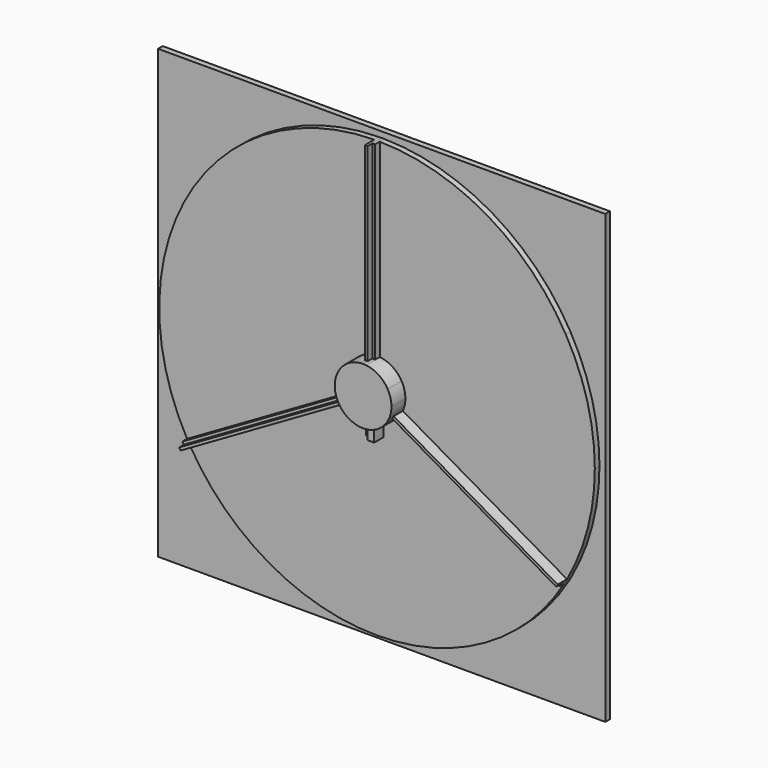
from build123d import *

# Parameters (mm, degrees)
F1_DEPTH = 2.54
F2_DEPTH = 5.08
F3_DEPTH = 2.54
F4_DEPTH = 7.62
F5_DEPTH = 10.16


with BuildPart() as f1:
    # F0 (on Front) → F1 (new body)
    with BuildSketch(Plane.XZ):
        with BuildLine():
            ThreePointArc((82.4889197105, 47.625), (92.004434954, 24.652514046), (95.25, 0))
            ThreePointArc((95.25, 0), (92.156719127, -24.0769935778), (83.0777875119, -46.5901676551))
            ThreePointArc((83.0777875119, -46.5901676551), (82.7849705841, -47.1085039605), (82.4889197105, -47.625))
            ThreePointArc((82.4889197105, -47.625), (82.1896464561, -48.1396355971), (81.8871625119, -48.6523906479))
            ThreePointArc((81.8871625119, -48.6523906479), (47.1085039605, -82.7849705841), (0, -95.25))
            Line((0, -95.25), (0, -97.79))
            Line((0, -97.79), (97.79, -97.79))
            Line((97.79, -97.79), (97.79, 97.79))
            Line((97.79, 97.79), (0, 97.79))
            Line((0, 97.79), (0, 95.25))
            ThreePointArc((0, 95.25), (0.595324128, 95.2481395576), (1.190625, 95.242558303))
            ThreePointArc((1.190625, 95.242558303), (48.1396355971, 82.1896464561), (82.4889197105, 47.625))
        make_face()
        with BuildLine():
            ThreePointArc((-1.190625, 95.242558303), (-0.595324128, 95.2481395576), (0, 95.25))
            Line((0, 95.25), (0, 97.79))
            Line((0, 97.79), (-97.79, 97.79))
            Line((-97.79, 97.79), (-97.79, -97.79))
            Line((-97.79, -97.79), (0, -97.79))
            Line((0, -97.79), (0, -95.25))
            ThreePointArc((0, -95.25), (-47.1085039605, -82.7849705841), (-81.8871625119, -48.6523906479))
            ThreePointArc((-81.8871625119, -48.6523906479), (-82.1896464561, -48.1396355971), (-82.4889197105, -47.625))
            ThreePointArc((-82.4889197105, -47.625), (-82.7849705841, -47.1085039605), (-83.0777875119, -46.5901676551))
            ThreePointArc((-83.0777875119, -46.5901676551), (-95.2481395576, 0.595324128), (-82.4889197105, 47.625))
            ThreePointArc((-82.4889197105, 47.625), (-48.1396355971, 82.1896464561), (-1.190625, 95.242558303))
        make_face()
        with BuildLine():
            Line((-1.190625, 12.3378845492), (-1.190625, 95.242558303))
            ThreePointArc((-1.190625, 95.242558303), (-48.1396355971, 82.1896464561), (-82.4889197105, 47.625))
            Line((-82.4889197105, 47.625), (-10.734558085, 6.1976))
            ThreePointArc((-10.734558085, 6.1976), (-6.7065841894, 10.4241408064), (-1.190625, 12.3378845492))
        make_face()
        with BuildLine():
            Line((0, -12.3952), (0, -1.3748153285))
            Line((0, -1.3748153285), (-2.1717, -2.6286469081))
            Line((-2.1717, -2.6286469081), (-2.1717, -12.2034709059))
            ThreePointArc((-2.1717, -12.2034709059), (-1.0900734993, -12.3471746892), (0, -12.3952))
        make_face()
        with BuildLine():
            ThreePointArc((0, -95.25), (47.1085039605, -82.7849705841), (81.8871625119, -48.6523906479))
            Line((81.8871625119, -48.6523906479), (10.0896089486, -7.200053771))
            ThreePointArc((10.0896089486, -7.200053771), (6.8985820933, -10.2980846832), (2.8194, -12.0702927338))
            Line((2.8194, -12.0702927338), (2.8194, -15.2146))
            Line((2.8194, -15.2146), (2.8194, -18.034))
            Line((2.8194, -18.034), (0, -18.034))
            Line((0, -18.034), (0, -95.25))
        make_face()
        with BuildLine():
            Line((1.190625, 0.6874076643), (10.734558085, 6.1976))
            ThreePointArc((10.734558085, 6.1976), (6.7065841894, 10.4241408064), (1.190625, 12.3378845492))
            Line((1.190625, 12.3378845492), (1.190625, 0.6874076643))
        make_face()
        with BuildLine():
            Line((-1.190625, 0.6874076643), (-1.190625, 12.3378845492))
            ThreePointArc((-1.190625, 12.3378845492), (-6.7065841894, 10.4241408064), (-10.734558085, 6.1976))
            Line((-10.734558085, 6.1976), (-1.190625, 0.6874076643))
        make_face()
        with BuildLine():
            Line((-2.8194, -3.0025966775), (-10.0896089486, -7.200053771))
            ThreePointArc((-10.0896089486, -7.200053771), (-6.8985820933, -10.2980846832), (-2.8194, -12.0702927338))
            Line((-2.8194, -12.0702927338), (-2.8194, -3.0025966775))
        make_face()
        with BuildLine():
            ThreePointArc((2.8194, -12.0702927338), (6.8985820933, -10.2980846832), (10.0896089486, -7.200053771))
            Line((10.0896089486, -7.200053771), (2.8194, -3.0025966775))
            Line((2.8194, -3.0025966775), (2.8194, -12.0702927338))
        make_face()
        with BuildLine():
            ThreePointArc((-81.8871625119, -48.6523906479), (-47.1085039605, -82.7849705841), (0, -95.25))
            Line((0, -95.25), (0, -18.034))
            Line((0, -18.034), (-2.8194, -18.034))
            Line((-2.8194, -18.034), (-2.8194, -15.2146))
            Line((-2.8194, -15.2146), (-2.8194, -12.0702927338))
            ThreePointArc((-2.8194, -12.0702927338), (-6.8985820933, -10.2980846832), (-10.0896089486, -7.200053771))
            Line((-10.0896089486, -7.200053771), (-81.8871625119, -48.6523906479))
        make_face()
        with BuildLine():
            Line((-10.734558085, 6.1976), (-82.4889197105, 47.625))
            ThreePointArc((-82.4889197105, 47.625), (-95.2481395576, 0.595324128), (-83.0777875119, -46.5901676551))
            Line((-83.0777875119, -46.5901676551), (-11.2802339486, -5.1378307782))
            ThreePointArc((-11.2802339486, -5.1378307782), (-12.3808628456, 0.5960018774), (-10.734558085, 6.1976))
        make_face()
        with BuildLine():
            Line((-2.8194, -0.2529660204), (-1.190625, 0.6874076643))
            Line((-1.190625, 0.6874076643), (-10.734558085, 6.1976))
            ThreePointArc((-10.734558085, 6.1976), (-12.3808628456, 0.5960018774), (-11.2802339486, -5.1378307782))
            Line((-11.2802339486, -5.1378307782), (-2.8194, -0.2529660204))
        make_face()
        with BuildLine():
            ThreePointArc((83.0777875119, -46.5901676551), (92.156719127, -24.0769935778), (95.25, 0))
            ThreePointArc((95.25, 0), (92.004434954, 24.652514046), (82.4889197105, 47.625))
            Line((82.4889197105, 47.625), (10.734558085, 6.1976))
            ThreePointArc((10.734558085, 6.1976), (11.972843802, 3.2081138279), (12.3952, 0))
            ThreePointArc((12.3952, 0), (12.1132518111, -2.6287094933), (11.2802339486, -5.1378307782))
            Line((11.2802339486, -5.1378307782), (83.0777875119, -46.5901676551))
        make_face()
        with BuildLine():
            Line((10.734558085, 6.1976), (82.4889197105, 47.625))
            ThreePointArc((82.4889197105, 47.625), (48.1396355971, 82.1896464561), (1.190625, 95.242558303))
            Line((1.190625, 95.242558303), (1.190625, 12.3378845492))
            ThreePointArc((1.190625, 12.3378845492), (6.7065841894, 10.4241408064), (10.734558085, 6.1976))
        make_face()
        with BuildLine():
            ThreePointArc((12.3952, 0), (11.972843802, 3.2081138279), (10.734558085, 6.1976))
            Line((10.734558085, 6.1976), (1.190625, 0.6874076643))
            Line((1.190625, 0.6874076643), (2.8194, -0.2529660204))
            Line((2.8194, -0.2529660204), (11.2802339486, -5.1378307782))
            ThreePointArc((11.2802339486, -5.1378307782), (12.1132518111, -2.6287094933), (12.3952, 0))
        make_face()
        with BuildLine():
            Line((2.1717, -2.6286469081), (0, -1.3748153285))
            Line((0, -1.3748153285), (0, -12.3952))
            ThreePointArc((0, -12.3952), (1.0900734993, -12.3471746892), (2.1717, -12.2034709059))
            Line((2.1717, -12.2034709059), (2.1717, -2.6286469081))
        make_face()
        with BuildLine():
            ThreePointArc((-2.1717, -13.4166190574), (-1.199956018, -12.6633019157), (0, -12.3952))
            ThreePointArc((0, -12.3952), (-1.0900734993, -12.3471746892), (-2.1717, -12.2034709059))
            Line((-2.1717, -12.2034709059), (-2.1717, -13.4166190574))
        make_face()
        with BuildLine():
            ThreePointArc((10.734558085, -6.1976), (11.0201426838, -5.6742786563), (11.2802339486, -5.1378307782))
            Line((11.2802339486, -5.1378307782), (2.8194, -0.2529660204))
            Line((2.8194, -0.2529660204), (2.8194, -1.627781349))
            Line((2.8194, -1.627781349), (10.734558085, -6.1976))
        make_face()
        with BuildLine():
            Line((-2.1717, -12.2034709059), (-2.1717, -2.6286469081))
            Line((-2.1717, -2.6286469081), (-2.8194, -3.0025966775))
            Line((-2.8194, -3.0025966775), (-2.8194, -12.0702927338))
            ThreePointArc((-2.8194, -12.0702927338), (-2.4964382446, -12.1412017169), (-2.1717, -12.2034709059))
        make_face()
        with BuildLine():
            Line((-10.734558085, -6.1976), (-2.8194, -1.627781349))
            Line((-2.8194, -1.627781349), (-2.8194, -0.2529660204))
            Line((-2.8194, -0.2529660204), (-11.2802339486, -5.1378307782))
            ThreePointArc((-11.2802339486, -5.1378307782), (-11.0201426838, -5.6742786563), (-10.734558085, -6.1976))
        make_face()
        with BuildLine():
            Line((1.190625, 0.6874076643), (1.190625, 12.3378845492))
            ThreePointArc((1.190625, 12.3378845492), (0.5960018774, 12.3808628456), (0, 12.3952))
            Line((0, 12.3952), (0, 0))
            Line((0, 0), (1.190625, 0.6874076643))
        make_face()
        with BuildLine():
            Line((-11.2802339486, -5.1378307782), (-83.0777875119, -46.5901676551))
            ThreePointArc((-83.0777875119, -46.5901676551), (-82.7849705841, -47.1085039605), (-82.4889197105, -47.625))
            Line((-82.4889197105, -47.625), (-10.734558085, -6.1976))
            ThreePointArc((-10.734558085, -6.1976), (-11.0201426838, -5.6742786563), (-11.2802339486, -5.1378307782))
        make_face()
        with BuildLine():
            Line((0, 0), (0, 12.3952))
            ThreePointArc((0, 12.3952), (-0.5960018774, 12.3808628456), (-1.190625, 12.3378845492))
            Line((-1.190625, 12.3378845492), (-1.190625, 0.6874076643))
            Line((-1.190625, 0.6874076643), (0, 0))
        make_face()
        with BuildLine():
            ThreePointArc((-82.4889197105, -47.625), (-82.1896464561, -48.1396355971), (-81.8871625119, -48.6523906479))
            Line((-81.8871625119, -48.6523906479), (-10.0896089486, -7.200053771))
            ThreePointArc((-10.0896089486, -7.200053771), (-10.4241408064, -6.7065841894), (-10.734558085, -6.1976))
            Line((-10.734558085, -6.1976), (-82.4889197105, -47.625))
        make_face()
        Polygon((-2.1717, -2.6286469081), (-2.1717, -1.2538315796), (-2.8194, -1.627781349), (-2.8194, -3.0025966775), align=None)
        with BuildLine():
            Line((0, 12.3952), (0, 95.25))
            ThreePointArc((0, 95.25), (-0.595324128, 95.2481395576), (-1.190625, 95.242558303))
            Line((-1.190625, 95.242558303), (-1.190625, 12.3378845492))
            ThreePointArc((-1.190625, 12.3378845492), (-0.5960018774, 12.3808628456), (0, 12.3952))
        make_face()
        with BuildLine():
            ThreePointArc((10.0896089486, -7.200053771), (10.4241408064, -6.7065841894), (10.734558085, -6.1976))
            Line((10.734558085, -6.1976), (2.8194, -1.627781349))
            Line((2.8194, -1.627781349), (2.8194, -3.0025966775))
            Line((2.8194, -3.0025966775), (10.0896089486, -7.200053771))
        make_face()
        with BuildLine():
            Line((-2.8194, -3.0025966775), (-2.8194, -1.627781349))
            Line((-2.8194, -1.627781349), (-10.734558085, -6.1976))
            ThreePointArc((-10.734558085, -6.1976), (-10.4241408064, -6.7065841894), (-10.0896089486, -7.200053771))
            Line((-10.0896089486, -7.200053771), (-2.8194, -3.0025966775))
        make_face()
        with BuildLine():
            ThreePointArc((82.4889197105, -47.625), (82.7849705841, -47.1085039605), (83.0777875119, -46.5901676551))
            Line((83.0777875119, -46.5901676551), (11.2802339486, -5.1378307782))
            ThreePointArc((11.2802339486, -5.1378307782), (11.0201426838, -5.6742786563), (10.734558085, -6.1976))
            Line((10.734558085, -6.1976), (82.4889197105, -47.625))
        make_face()
        with BuildLine():
            ThreePointArc((81.8871625119, -48.6523906479), (82.1896464561, -48.1396355971), (82.4889197105, -47.625))
            Line((82.4889197105, -47.625), (10.734558085, -6.1976))
            ThreePointArc((10.734558085, -6.1976), (10.4241408064, -6.7065841894), (10.0896089486, -7.200053771))
            Line((10.0896089486, -7.200053771), (81.8871625119, -48.6523906479))
        make_face()
        with BuildLine():
            Line((1.190625, 12.3378845492), (1.190625, 95.242558303))
            ThreePointArc((1.190625, 95.242558303), (0.595324128, 95.2481395576), (0, 95.25))
            Line((0, 95.25), (0, 12.3952))
            ThreePointArc((0, 12.3952), (0.5960018774, 12.3808628456), (1.190625, 12.3378845492))
        make_face()
        Polygon((2.1717, -1.2538315796), (0, 0), (0, -1.3748153285), (2.1717, -2.6286469081), align=None)
        Polygon((2.8194, -3.0025966775), (2.8194, -1.627781349), (2.1717, -1.2538315796), (2.1717, -2.6286469081), align=None)
        with BuildLine():
            ThreePointArc((2.1717, -14.5669), (1.5356237967, -13.0312762033), (0, -12.3952))
            Line((0, -12.3952), (0, -16.7386))
            ThreePointArc((0, -16.7386), (1.5356237967, -16.1025237967), (2.1717, -14.5669))
        make_face()
        Polygon((0, -1.3748153285), (0, 0), (-2.1717, -1.2538315796), (-2.1717, -2.6286469081), align=None)
        with BuildLine():
            ThreePointArc((2.1717, -12.2034709059), (2.4964382446, -12.1412017169), (2.8194, -12.0702927338))
            Line((2.8194, -12.0702927338), (2.8194, -3.0025966775))
            Line((2.8194, -3.0025966775), (2.1717, -2.6286469081))
            Line((2.1717, -2.6286469081), (2.1717, -12.2034709059))
        make_face()
        with BuildLine():
            Line((-2.8194, -12.0702927338), (-2.8194, -15.2146))
            ThreePointArc((-2.8194, -15.2146), (-2.6525372137, -14.2590568613), (-2.1717, -13.4166190574))
            Line((-2.1717, -13.4166190574), (-2.1717, -12.2034709059))
            ThreePointArc((-2.1717, -12.2034709059), (-2.4964382446, -12.1412017169), (-2.8194, -12.0702927338))
        make_face()
        with BuildLine():
            Line((2.8194, -15.2146), (2.8194, -12.0702927338))
            ThreePointArc((2.8194, -12.0702927338), (2.4964382446, -12.1412017169), (2.1717, -12.2034709059))
            Line((2.1717, -12.2034709059), (2.1717, -13.4166190574))
            ThreePointArc((2.1717, -13.4166190574), (2.6525372137, -14.2590568613), (2.8194, -15.2146))
        make_face()
        with BuildLine():
            Line((-2.1717, -16.7386), (0, -16.7386))
            ThreePointArc((0, -16.7386), (-1.5356237967, -16.1025237967), (-2.1717, -14.5669))
            Line((-2.1717, -14.5669), (-2.1717, -16.7386))
        make_face()
        with BuildLine():
            ThreePointArc((2.1717, -13.4166190574), (1.199956018, -12.6633019157), (0, -12.3952))
            ThreePointArc((0, -12.3952), (1.5356237967, -13.0312762033), (2.1717, -14.5669))
            Line((2.1717, -14.5669), (2.1717, -13.4166190574))
        make_face()
        with BuildLine():
            ThreePointArc((2.1717, -12.2034709059), (1.0900734993, -12.3471746892), (0, -12.3952))
            ThreePointArc((0, -12.3952), (1.199956018, -12.6633019157), (2.1717, -13.4166190574))
            Line((2.1717, -13.4166190574), (2.1717, -12.2034709059))
        make_face()
        with BuildLine():
            ThreePointArc((-2.8194, -15.2146), (-1.9936168589, -17.2082168589), (0, -18.034))
            Line((0, -18.034), (0, -16.7386))
            Line((0, -16.7386), (-2.1717, -16.7386))
            Line((-2.1717, -16.7386), (-2.1717, -14.5669))
            Line((-2.1717, -14.5669), (-2.1717, -13.4166190574))
            ThreePointArc((-2.1717, -13.4166190574), (-2.6525372137, -14.2590568613), (-2.8194, -15.2146))
        make_face()
        with BuildLine():
            ThreePointArc((-2.1717, -14.5669), (-1.5356237967, -13.0312762033), (0, -12.3952))
            ThreePointArc((0, -12.3952), (-1.199956018, -12.6633019157), (-2.1717, -13.4166190574))
            Line((-2.1717, -13.4166190574), (-2.1717, -14.5669))
        make_face()
        with BuildLine():
            Line((0, -16.7386), (0, -18.034))
            ThreePointArc((0, -18.034), (1.9936168589, -17.2082168589), (2.8194, -15.2146))
            ThreePointArc((2.8194, -15.2146), (2.6525372137, -14.2590568613), (2.1717, -13.4166190574))
            Line((2.1717, -13.4166190574), (2.1717, -14.5669))
            Line((2.1717, -14.5669), (2.1717, -16.7386))
            Line((2.1717, -16.7386), (0, -16.7386))
        make_face()
        with BuildLine():
            Line((0, -16.7386), (0, -12.3952))
            ThreePointArc((0, -12.3952), (-1.5356237967, -13.0312762033), (-2.1717, -14.5669))
            ThreePointArc((-2.1717, -14.5669), (-1.5356237967, -16.1025237967), (0, -16.7386))
        make_face()
        with BuildLine():
            ThreePointArc((2.1717, -14.5669), (1.5356237967, -16.1025237967), (0, -16.7386))
            Line((0, -16.7386), (2.1717, -16.7386))
            Line((2.1717, -16.7386), (2.1717, -14.5669))
        make_face()
        with BuildLine():
            Line((-2.8194, -18.034), (0, -18.034))
            ThreePointArc((0, -18.034), (-1.9936168589, -17.2082168589), (-2.8194, -15.2146))
            Line((-2.8194, -15.2146), (-2.8194, -18.034))
        make_face()
        with BuildLine():
            ThreePointArc((2.8194, -15.2146), (1.9936168589, -17.2082168589), (0, -18.034))
            Line((0, -18.034), (2.8194, -18.034))
            Line((2.8194, -18.034), (2.8194, -15.2146))
        make_face()
        with BuildLine():
            Line((-2.8194, -0.2529660204), (-1.190625, 0.6874076643))
            Line((-1.190625, 0.6874076643), (-10.734558085, 6.1976))
            ThreePointArc((-10.734558085, 6.1976), (-12.3808628456, 0.5960018774), (-11.2802339486, -5.1378307782))
            Line((-11.2802339486, -5.1378307782), (-2.8194, -0.2529660204))
        make_face()
        Polygon((2.8194, -0.2529660204), (1.190625, 0.6874076643), (0, 0), (2.1717, -1.2538315796), (2.8194, -1.627781349), align=None)
        Polygon((-2.1717, -1.2538315796), (0, 0), (-1.190625, 0.6874076643), (-2.8194, -0.2529660204), (-2.8194, -1.627781349), align=None)
        Polygon((-2.1717, -1.2538315796), (0, 0), (-1.190625, 0.6874076643), (-2.8194, -0.2529660204), (-2.8194, -1.627781349), align=None)
        Polygon((2.8194, -0.2529660204), (1.190625, 0.6874076643), (0, 0), (2.1717, -1.2538315796), (2.8194, -1.627781349), align=None)
        with BuildLine():
            Line((0, 0), (0, 12.3952))
            ThreePointArc((0, 12.3952), (-0.5960018774, 12.3808628456), (-1.190625, 12.3378845492))
            Line((-1.190625, 12.3378845492), (-1.190625, 0.6874076643))
            Line((-1.190625, 0.6874076643), (0, 0))
        make_face()
        Polygon((2.1717, -1.2538315796), (0, 0), (0, -1.3748153285), (2.1717, -2.6286469081), align=None)
        Polygon((2.8194, -0.2529660204), (1.190625, 0.6874076643), (0, 0), (2.1717, -1.2538315796), (2.8194, -1.627781349), align=None)
        Polygon((0, -1.3748153285), (0, 0), (-2.1717, -1.2538315796), (-2.1717, -2.6286469081), align=None)
        Polygon((2.1717, -1.2538315796), (0, 0), (0, -1.3748153285), (2.1717, -2.6286469081), align=None)
        Polygon((-2.1717, -1.2538315796), (0, 0), (-1.190625, 0.6874076643), (-2.8194, -0.2529660204), (-2.8194, -1.627781349), align=None)
        Polygon((2.8194, -0.2529660204), (1.190625, 0.6874076643), (0, 0), (2.1717, -1.2538315796), (2.8194, -1.627781349), align=None)
        with BuildLine():
            Line((0, 0), (0, 12.3952))
            ThreePointArc((0, 12.3952), (-0.5960018774, 12.3808628456), (-1.190625, 12.3378845492))
            Line((-1.190625, 12.3378845492), (-1.190625, 0.6874076643))
            Line((-1.190625, 0.6874076643), (0, 0))
        make_face()
        with BuildLine():
            Line((1.190625, 0.6874076643), (1.190625, 12.3378845492))
            ThreePointArc((1.190625, 12.3378845492), (0.5960018774, 12.3808628456), (0, 12.3952))
            Line((0, 12.3952), (0, 0))
            Line((0, 0), (1.190625, 0.6874076643))
        make_face()
        with BuildLine():
            Line((1.190625, 0.6874076643), (1.190625, 12.3378845492))
            ThreePointArc((1.190625, 12.3378845492), (0.5960018774, 12.3808628456), (0, 12.3952))
            Line((0, 12.3952), (0, 0))
            Line((0, 0), (1.190625, 0.6874076643))
        make_face()
        Polygon((2.1717, -1.2538315796), (0, 0), (0, -1.3748153285), (2.1717, -2.6286469081), align=None)
        with BuildLine():
            Line((0, 0), (0, 12.3952))
            ThreePointArc((0, 12.3952), (-0.5960018774, 12.3808628456), (-1.190625, 12.3378845492))
            Line((-1.190625, 12.3378845492), (-1.190625, 0.6874076643))
            Line((-1.190625, 0.6874076643), (0, 0))
        make_face()
        Polygon((-2.1717, -1.2538315796), (0, 0), (-1.190625, 0.6874076643), (-2.8194, -0.2529660204), (-2.8194, -1.627781349), align=None)
        Polygon((-2.1717, -1.2538315796), (0, 0), (-1.190625, 0.6874076643), (-2.8194, -0.2529660204), (-2.8194, -1.627781349), align=None)
        Polygon((0, -1.3748153285), (0, 0), (-2.1717, -1.2538315796), (-2.1717, -2.6286469081), align=None)
        with BuildLine():
            Line((1.190625, 0.6874076643), (1.190625, 12.3378845492))
            ThreePointArc((1.190625, 12.3378845492), (0.5960018774, 12.3808628456), (0, 12.3952))
            Line((0, 12.3952), (0, 0))
            Line((0, 0), (1.190625, 0.6874076643))
        make_face()
        Polygon((-2.1717, -1.2538315796), (0, 0), (-1.190625, 0.6874076643), (-2.8194, -0.2529660204), (-2.8194, -1.627781349), align=None)
        Polygon((2.8194, -0.2529660204), (1.190625, 0.6874076643), (0, 0), (2.1717, -1.2538315796), (2.8194, -1.627781349), align=None)
        Polygon((0, -1.3748153285), (0, 0), (-2.1717, -1.2538315796), (-2.1717, -2.6286469081), align=None)
        Polygon((2.8194, -0.2529660204), (1.190625, 0.6874076643), (0, 0), (2.1717, -1.2538315796), (2.8194, -1.627781349), align=None)
        with BuildLine():
            ThreePointArc((12.3952, 0), (11.972843802, 3.2081138279), (10.734558085, 6.1976))
            Line((10.734558085, 6.1976), (1.190625, 0.6874076643))
            Line((1.190625, 0.6874076643), (2.8194, -0.2529660204))
            Line((2.8194, -0.2529660204), (11.2802339486, -5.1378307782))
            ThreePointArc((11.2802339486, -5.1378307782), (12.1132518111, -2.6287094933), (12.3952, 0))
        make_face()
        Polygon((0, -1.3748153285), (0, 0), (-2.1717, -1.2538315796), (-2.1717, -2.6286469081), align=None)
        Polygon((2.1717, -1.2538315796), (0, 0), (0, -1.3748153285), (2.1717, -2.6286469081), align=None)
    extrude(amount=-F1_DEPTH)

    # F0 (on Front) → F2 (join)
    with BuildSketch(Plane.XZ):
        with BuildLine():
            Line((1.190625, 12.3378845492), (1.190625, 95.242558303))
            ThreePointArc((1.190625, 95.242558303), (0.595324128, 95.2481395576), (0, 95.25))
            Line((0, 95.25), (0, 12.3952))
            ThreePointArc((0, 12.3952), (0.5960018774, 12.3808628456), (1.190625, 12.3378845492))
        make_face()
        with BuildLine():
            Line((-11.2802339486, -5.1378307782), (-83.0777875119, -46.5901676551))
            ThreePointArc((-83.0777875119, -46.5901676551), (-82.7849705841, -47.1085039605), (-82.4889197105, -47.625))
            Line((-82.4889197105, -47.625), (-10.734558085, -6.1976))
            ThreePointArc((-10.734558085, -6.1976), (-11.0201426838, -5.6742786563), (-11.2802339486, -5.1378307782))
        make_face()
        with BuildLine():
            ThreePointArc((81.8871625119, -48.6523906479), (82.1896464561, -48.1396355971), (82.4889197105, -47.625))
            Line((82.4889197105, -47.625), (10.734558085, -6.1976))
            ThreePointArc((10.734558085, -6.1976), (10.4241408064, -6.7065841894), (10.0896089486, -7.200053771))
            Line((10.0896089486, -7.200053771), (81.8871625119, -48.6523906479))
        make_face()
        with BuildLine():
            Line((0, -16.7386), (0, -12.3952))
            ThreePointArc((0, -12.3952), (-1.5356237967, -13.0312762033), (-2.1717, -14.5669))
            ThreePointArc((-2.1717, -14.5669), (-1.5356237967, -16.1025237967), (0, -16.7386))
        make_face()
        with BuildLine():
            ThreePointArc((-2.1717, -14.5669), (-1.5356237967, -13.0312762033), (0, -12.3952))
            ThreePointArc((0, -12.3952), (-1.199956018, -12.6633019157), (-2.1717, -13.4166190574))
            Line((-2.1717, -13.4166190574), (-2.1717, -14.5669))
        make_face()
        with BuildLine():
            ThreePointArc((-2.1717, -13.4166190574), (-1.199956018, -12.6633019157), (0, -12.3952))
            ThreePointArc((0, -12.3952), (-1.0900734993, -12.3471746892), (-2.1717, -12.2034709059))
            Line((-2.1717, -12.2034709059), (-2.1717, -13.4166190574))
        make_face()
        with BuildLine():
            Line((-2.8194, -12.0702927338), (-2.8194, -15.2146))
            ThreePointArc((-2.8194, -15.2146), (-2.6525372137, -14.2590568613), (-2.1717, -13.4166190574))
            Line((-2.1717, -13.4166190574), (-2.1717, -12.2034709059))
            ThreePointArc((-2.1717, -12.2034709059), (-2.4964382446, -12.1412017169), (-2.8194, -12.0702927338))
        make_face()
        with BuildLine():
            ThreePointArc((-2.8194, -15.2146), (-1.9936168589, -17.2082168589), (0, -18.034))
            Line((0, -18.034), (0, -16.7386))
            Line((0, -16.7386), (-2.1717, -16.7386))
            Line((-2.1717, -16.7386), (-2.1717, -14.5669))
            Line((-2.1717, -14.5669), (-2.1717, -13.4166190574))
            ThreePointArc((-2.1717, -13.4166190574), (-2.6525372137, -14.2590568613), (-2.8194, -15.2146))
        make_face()
        with BuildLine():
            Line((-2.1717, -16.7386), (0, -16.7386))
            ThreePointArc((0, -16.7386), (-1.5356237967, -16.1025237967), (-2.1717, -14.5669))
            Line((-2.1717, -14.5669), (-2.1717, -16.7386))
        make_face()
        with BuildLine():
            Line((-2.8194, -18.034), (0, -18.034))
            ThreePointArc((0, -18.034), (-1.9936168589, -17.2082168589), (-2.8194, -15.2146))
            Line((-2.8194, -15.2146), (-2.8194, -18.034))
        make_face()
    extrude(amount=F2_DEPTH)

    # F0 (on Front) → F3 (join)
    with BuildSketch(Plane.XZ):
        with BuildLine():
            ThreePointArc((-81.8871625119, -48.6523906479), (-47.1085039605, -82.7849705841), (0, -95.25))
            Line((0, -95.25), (0, -18.034))
            Line((0, -18.034), (-2.8194, -18.034))
            Line((-2.8194, -18.034), (-2.8194, -15.2146))
            Line((-2.8194, -15.2146), (-2.8194, -12.0702927338))
            ThreePointArc((-2.8194, -12.0702927338), (-6.8985820933, -10.2980846832), (-10.0896089486, -7.200053771))
            Line((-10.0896089486, -7.200053771), (-81.8871625119, -48.6523906479))
        make_face()
        with BuildLine():
            ThreePointArc((0, -95.25), (47.1085039605, -82.7849705841), (81.8871625119, -48.6523906479))
            Line((81.8871625119, -48.6523906479), (10.0896089486, -7.200053771))
            ThreePointArc((10.0896089486, -7.200053771), (6.8985820933, -10.2980846832), (2.8194, -12.0702927338))
            Line((2.8194, -12.0702927338), (2.8194, -15.2146))
            Line((2.8194, -15.2146), (2.8194, -18.034))
            Line((2.8194, -18.034), (0, -18.034))
            Line((0, -18.034), (0, -95.25))
        make_face()
        with BuildLine():
            ThreePointArc((83.0777875119, -46.5901676551), (92.156719127, -24.0769935778), (95.25, 0))
            ThreePointArc((95.25, 0), (92.004434954, 24.652514046), (82.4889197105, 47.625))
            Line((82.4889197105, 47.625), (10.734558085, 6.1976))
            ThreePointArc((10.734558085, 6.1976), (11.972843802, 3.2081138279), (12.3952, 0))
            ThreePointArc((12.3952, 0), (12.1132518111, -2.6287094933), (11.2802339486, -5.1378307782))
            Line((11.2802339486, -5.1378307782), (83.0777875119, -46.5901676551))
        make_face()
        with BuildLine():
            Line((10.734558085, 6.1976), (82.4889197105, 47.625))
            ThreePointArc((82.4889197105, 47.625), (48.1396355971, 82.1896464561), (1.190625, 95.242558303))
            Line((1.190625, 95.242558303), (1.190625, 12.3378845492))
            ThreePointArc((1.190625, 12.3378845492), (6.7065841894, 10.4241408064), (10.734558085, 6.1976))
        make_face()
        with BuildLine():
            Line((-1.190625, 12.3378845492), (-1.190625, 95.242558303))
            ThreePointArc((-1.190625, 95.242558303), (-48.1396355971, 82.1896464561), (-82.4889197105, 47.625))
            Line((-82.4889197105, 47.625), (-10.734558085, 6.1976))
            ThreePointArc((-10.734558085, 6.1976), (-6.7065841894, 10.4241408064), (-1.190625, 12.3378845492))
        make_face()
        with BuildLine():
            Line((-10.734558085, 6.1976), (-82.4889197105, 47.625))
            ThreePointArc((-82.4889197105, 47.625), (-95.2481395576, 0.595324128), (-83.0777875119, -46.5901676551))
            Line((-83.0777875119, -46.5901676551), (-11.2802339486, -5.1378307782))
            ThreePointArc((-11.2802339486, -5.1378307782), (-12.3808628456, 0.5960018774), (-10.734558085, 6.1976))
        make_face()
    extrude(amount=F3_DEPTH)

    # F0 (on Front) → F4 (join)
    with BuildSketch(Plane.XZ):
        with BuildLine():
            ThreePointArc((-82.4889197105, -47.625), (-82.1896464561, -48.1396355971), (-81.8871625119, -48.6523906479))
            Line((-81.8871625119, -48.6523906479), (-10.0896089486, -7.200053771))
            ThreePointArc((-10.0896089486, -7.200053771), (-10.4241408064, -6.7065841894), (-10.734558085, -6.1976))
            Line((-10.734558085, -6.1976), (-82.4889197105, -47.625))
        make_face()
        with BuildLine():
            ThreePointArc((82.4889197105, -47.625), (82.7849705841, -47.1085039605), (83.0777875119, -46.5901676551))
            Line((83.0777875119, -46.5901676551), (11.2802339486, -5.1378307782))
            ThreePointArc((11.2802339486, -5.1378307782), (11.0201426838, -5.6742786563), (10.734558085, -6.1976))
            Line((10.734558085, -6.1976), (82.4889197105, -47.625))
        make_face()
        with BuildLine():
            Line((0, 12.3952), (0, 95.25))
            ThreePointArc((0, 95.25), (-0.595324128, 95.2481395576), (-1.190625, 95.242558303))
            Line((-1.190625, 95.242558303), (-1.190625, 12.3378845492))
            ThreePointArc((-1.190625, 12.3378845492), (-0.5960018774, 12.3808628456), (0, 12.3952))
        make_face()
        with BuildLine():
            ThreePointArc((2.8194, -15.2146), (1.9936168589, -17.2082168589), (0, -18.034))
            Line((0, -18.034), (2.8194, -18.034))
            Line((2.8194, -18.034), (2.8194, -15.2146))
        make_face()
        with BuildLine():
            Line((0, -16.7386), (0, -18.034))
            ThreePointArc((0, -18.034), (1.9936168589, -17.2082168589), (2.8194, -15.2146))
            ThreePointArc((2.8194, -15.2146), (2.6525372137, -14.2590568613), (2.1717, -13.4166190574))
            Line((2.1717, -13.4166190574), (2.1717, -14.5669))
            Line((2.1717, -14.5669), (2.1717, -16.7386))
            Line((2.1717, -16.7386), (0, -16.7386))
        make_face()
        with BuildLine():
            ThreePointArc((2.1717, -14.5669), (1.5356237967, -16.1025237967), (0, -16.7386))
            Line((0, -16.7386), (2.1717, -16.7386))
            Line((2.1717, -16.7386), (2.1717, -14.5669))
        make_face()
        with BuildLine():
            ThreePointArc((2.1717, -14.5669), (1.5356237967, -13.0312762033), (0, -12.3952))
            Line((0, -12.3952), (0, -16.7386))
            ThreePointArc((0, -16.7386), (1.5356237967, -16.1025237967), (2.1717, -14.5669))
        make_face()
        with BuildLine():
            ThreePointArc((2.1717, -13.4166190574), (1.199956018, -12.6633019157), (0, -12.3952))
            ThreePointArc((0, -12.3952), (1.5356237967, -13.0312762033), (2.1717, -14.5669))
            Line((2.1717, -14.5669), (2.1717, -13.4166190574))
        make_face()
        with BuildLine():
            Line((2.8194, -15.2146), (2.8194, -12.0702927338))
            ThreePointArc((2.8194, -12.0702927338), (2.4964382446, -12.1412017169), (2.1717, -12.2034709059))
            Line((2.1717, -12.2034709059), (2.1717, -13.4166190574))
            ThreePointArc((2.1717, -13.4166190574), (2.6525372137, -14.2590568613), (2.8194, -15.2146))
        make_face()
        with BuildLine():
            ThreePointArc((2.1717, -12.2034709059), (1.0900734993, -12.3471746892), (0, -12.3952))
            ThreePointArc((0, -12.3952), (1.199956018, -12.6633019157), (2.1717, -13.4166190574))
            Line((2.1717, -13.4166190574), (2.1717, -12.2034709059))
        make_face()
    extrude(amount=F4_DEPTH)

    # F0 (on Front) → F5 (join)
    with BuildSketch(Plane.XZ):
        with BuildLine():
            Line((-1.190625, 0.6874076643), (-1.190625, 12.3378845492))
            ThreePointArc((-1.190625, 12.3378845492), (-6.7065841894, 10.4241408064), (-10.734558085, 6.1976))
            Line((-10.734558085, 6.1976), (-1.190625, 0.6874076643))
        make_face()
        with BuildLine():
            Line((0, 0), (0, 12.3952))
            ThreePointArc((0, 12.3952), (-0.5960018774, 12.3808628456), (-1.190625, 12.3378845492))
            Line((-1.190625, 12.3378845492), (-1.190625, 0.6874076643))
            Line((-1.190625, 0.6874076643), (0, 0))
        make_face()
        with BuildLine():
            Line((1.190625, 0.6874076643), (1.190625, 12.3378845492))
            ThreePointArc((1.190625, 12.3378845492), (0.5960018774, 12.3808628456), (0, 12.3952))
            Line((0, 12.3952), (0, 0))
            Line((0, 0), (1.190625, 0.6874076643))
        make_face()
        with BuildLine():
            Line((1.190625, 0.6874076643), (10.734558085, 6.1976))
            ThreePointArc((10.734558085, 6.1976), (6.7065841894, 10.4241408064), (1.190625, 12.3378845492))
            Line((1.190625, 12.3378845492), (1.190625, 0.6874076643))
        make_face()
        with BuildLine():
            ThreePointArc((12.3952, 0), (11.972843802, 3.2081138279), (10.734558085, 6.1976))
            Line((10.734558085, 6.1976), (1.190625, 0.6874076643))
            Line((1.190625, 0.6874076643), (2.8194, -0.2529660204))
            Line((2.8194, -0.2529660204), (11.2802339486, -5.1378307782))
            ThreePointArc((11.2802339486, -5.1378307782), (12.1132518111, -2.6287094933), (12.3952, 0))
        make_face()
        Polygon((2.8194, -0.2529660204), (1.190625, 0.6874076643), (0, 0), (2.1717, -1.2538315796), (2.8194, -1.627781349), align=None)
        with BuildLine():
            ThreePointArc((10.734558085, -6.1976), (11.0201426838, -5.6742786563), (11.2802339486, -5.1378307782))
            Line((11.2802339486, -5.1378307782), (2.8194, -0.2529660204))
            Line((2.8194, -0.2529660204), (2.8194, -1.627781349))
            Line((2.8194, -1.627781349), (10.734558085, -6.1976))
        make_face()
        with BuildLine():
            ThreePointArc((10.0896089486, -7.200053771), (10.4241408064, -6.7065841894), (10.734558085, -6.1976))
            Line((10.734558085, -6.1976), (2.8194, -1.627781349))
            Line((2.8194, -1.627781349), (2.8194, -3.0025966775))
            Line((2.8194, -3.0025966775), (10.0896089486, -7.200053771))
        make_face()
        Polygon((2.1717, -1.2538315796), (0, 0), (0, -1.3748153285), (2.1717, -2.6286469081), align=None)
        Polygon((2.8194, -3.0025966775), (2.8194, -1.627781349), (2.1717, -1.2538315796), (2.1717, -2.6286469081), align=None)
        with BuildLine():
            ThreePointArc((2.8194, -12.0702927338), (6.8985820933, -10.2980846832), (10.0896089486, -7.200053771))
            Line((10.0896089486, -7.200053771), (2.8194, -3.0025966775))
            Line((2.8194, -3.0025966775), (2.8194, -12.0702927338))
        make_face()
        with BuildLine():
            ThreePointArc((2.1717, -12.2034709059), (2.4964382446, -12.1412017169), (2.8194, -12.0702927338))
            Line((2.8194, -12.0702927338), (2.8194, -3.0025966775))
            Line((2.8194, -3.0025966775), (2.1717, -2.6286469081))
            Line((2.1717, -2.6286469081), (2.1717, -12.2034709059))
        make_face()
        with BuildLine():
            Line((2.1717, -2.6286469081), (0, -1.3748153285))
            Line((0, -1.3748153285), (0, -12.3952))
            ThreePointArc((0, -12.3952), (1.0900734993, -12.3471746892), (2.1717, -12.2034709059))
            Line((2.1717, -12.2034709059), (2.1717, -2.6286469081))
        make_face()
        with BuildLine():
            Line((0, -12.3952), (0, -1.3748153285))
            Line((0, -1.3748153285), (-2.1717, -2.6286469081))
            Line((-2.1717, -2.6286469081), (-2.1717, -12.2034709059))
            ThreePointArc((-2.1717, -12.2034709059), (-1.0900734993, -12.3471746892), (0, -12.3952))
        make_face()
        Polygon((-2.1717, -1.2538315796), (0, 0), (-1.190625, 0.6874076643), (-2.8194, -0.2529660204), (-2.8194, -1.627781349), align=None)
        with BuildLine():
            Line((-2.8194, -3.0025966775), (-10.0896089486, -7.200053771))
            ThreePointArc((-10.0896089486, -7.200053771), (-6.8985820933, -10.2980846832), (-2.8194, -12.0702927338))
            Line((-2.8194, -12.0702927338), (-2.8194, -3.0025966775))
        make_face()
        with BuildLine():
            Line((-2.8194, -0.2529660204), (-1.190625, 0.6874076643))
            Line((-1.190625, 0.6874076643), (-10.734558085, 6.1976))
            ThreePointArc((-10.734558085, 6.1976), (-12.3808628456, 0.5960018774), (-11.2802339486, -5.1378307782))
            Line((-11.2802339486, -5.1378307782), (-2.8194, -0.2529660204))
        make_face()
        with BuildLine():
            Line((-2.1717, -12.2034709059), (-2.1717, -2.6286469081))
            Line((-2.1717, -2.6286469081), (-2.8194, -3.0025966775))
            Line((-2.8194, -3.0025966775), (-2.8194, -12.0702927338))
            ThreePointArc((-2.8194, -12.0702927338), (-2.4964382446, -12.1412017169), (-2.1717, -12.2034709059))
        make_face()
        Polygon((0, -1.3748153285), (0, 0), (-2.1717, -1.2538315796), (-2.1717, -2.6286469081), align=None)
        Polygon((-2.1717, -2.6286469081), (-2.1717, -1.2538315796), (-2.8194, -1.627781349), (-2.8194, -3.0025966775), align=None)
        with BuildLine():
            Line((-2.8194, -3.0025966775), (-2.8194, -1.627781349))
            Line((-2.8194, -1.627781349), (-10.734558085, -6.1976))
            ThreePointArc((-10.734558085, -6.1976), (-10.4241408064, -6.7065841894), (-10.0896089486, -7.200053771))
            Line((-10.0896089486, -7.200053771), (-2.8194, -3.0025966775))
        make_face()
        with BuildLine():
            Line((-10.734558085, -6.1976), (-2.8194, -1.627781349))
            Line((-2.8194, -1.627781349), (-2.8194, -0.2529660204))
            Line((-2.8194, -0.2529660204), (-11.2802339486, -5.1378307782))
            ThreePointArc((-11.2802339486, -5.1378307782), (-11.0201426838, -5.6742786563), (-10.734558085, -6.1976))
        make_face()
    extrude(amount=F5_DEPTH)


solid = f1.part
